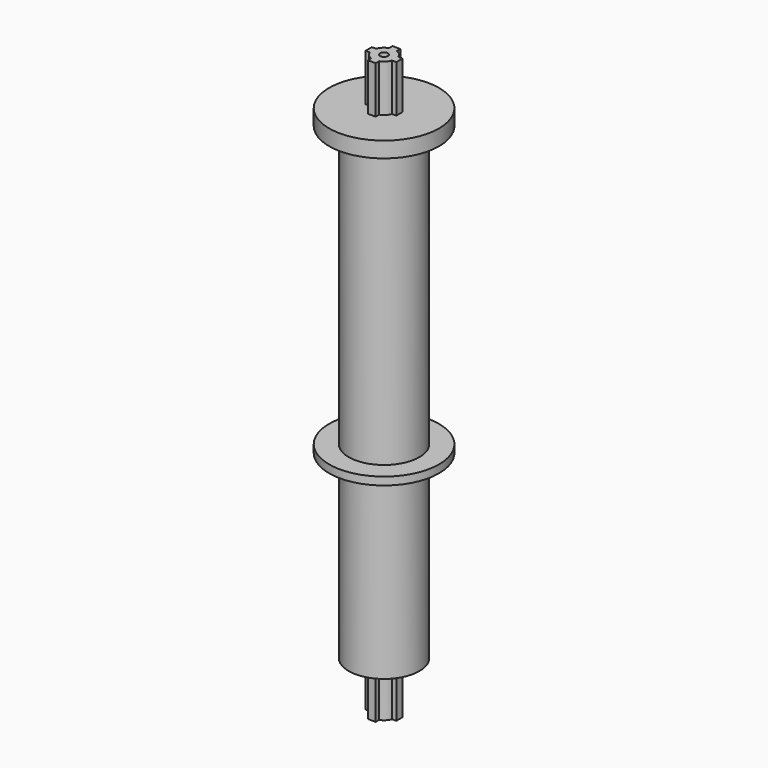
from build123d import *

# Parameters (mm, degrees)
F0_R      = 22.5
F1_DEPTH  = 308.423
F4_DEPTH  = 31
F5_R      = 2.5
F6_DEPTH  = 40
F7_DEPTH  = 30
F8_R      = 2.5
F9_DEPTH  = 30
F10_R     = 35
F11_DEPTH = 10
F13_R     = 35
F14_DEPTH = 5


with BuildPart() as f1:
    # F0 (on Top) → F1 (new body)
    with BuildSketch(Plane.XY):
        Circle(F0_R)
    extrude(amount=F1_DEPTH)

    # F3 (on face) → F4 (join)
    with BuildSketch(Plane(origin=(0, 0, 0), x_dir=(1, 0, 0), z_dir=(0, 0, -1))):
        with BuildLine():
            ThreePointArc((7.0710678119, 2.5), (7.3919891974, 1.2682648404), (7.5, 0))
            ThreePointArc((7.5, 0), (7.3919069765, -1.268743966), (7.0707436663, -2.500916633))
            Line((7.0707436663, -2.500916633), (9.7997435124, -2.5))
            Line((9.7997435124, -2.5), (9.7997435124, 0))
            Line((9.7997435124, 0), (9.7997435124, 2.5))
            Line((9.7997435124, 2.5), (7.0710678119, 2.5))
        make_face()
        with BuildLine():
            Line((2.5, -9.7997435124), (2.5, -7.0710678119))
            ThreePointArc((2.5, -7.0710678119), (-0.0004861292, -7.4999999842), (-2.500916633, -7.0707436663))
            Line((-2.500916633, -7.0707436663), (-2.5, -9.7997435124))
            Line((-2.5, -9.7997435124), (0, -9.7997435124))
            Line((0, -9.7997435124), (2.5, -9.7997435124))
        make_face()
        with BuildLine():
            ThreePointArc((-7.0710678119, -2.5), (-7.4999999842, 0.0004861292), (-7.0707436663, 2.500916633))
            Line((-7.0707436663, 2.500916633), (-9.7997435124, 2.5))
            Line((-9.7997435124, 2.5), (-9.7997435124, 0))
            Line((-9.7997435124, 0), (-9.7997435124, -2.5))
            Line((-9.7997435124, -2.5), (-7.0710678119, -2.5))
        make_face()
        with BuildLine():
            ThreePointArc((7.0707436663, -2.500916633), (7.3919069765, -1.268743966), (7.5, 0))
            ThreePointArc((7.5, 0), (7.3919891974, 1.2682648404), (7.0710678119, 2.5))
            ThreePointArc((7.0710678119, 2.5), (5.303644593, 5.3029571025), (2.500916633, 7.0707436663))
            ThreePointArc((2.500916633, 7.0707436663), (0.0004861292, 7.4999999842), (-2.5, 7.0710678119))
            ThreePointArc((-2.5, 7.0710678119), (-5.3029571025, 5.303644593), (-7.0707436663, 2.500916633))
            ThreePointArc((-7.0707436663, 2.500916633), (-7.4999999842, 0.0004861292), (-7.0710678119, -2.5))
            ThreePointArc((-7.0710678119, -2.5), (-5.303644593, -5.3029571025), (-2.500916633, -7.0707436663))
            ThreePointArc((-2.500916633, -7.0707436663), (-0.0004861292, -7.4999999842), (2.5, -7.0710678119))
            ThreePointArc((2.5, -7.0710678119), (5.3029571025, -5.303644593), (7.0707436663, -2.500916633))
        make_face()
        with BuildLine():
            ThreePointArc((-2.5, 7.0710678119), (0.0004861292, 7.4999999842), (2.500916633, 7.0707436663))
            Line((2.500916633, 7.0707436663), (2.5, 9.7997435124))
            Line((2.5, 9.7997435124), (0, 9.7997435124))
            Line((0, 9.7997435124), (-2.5, 9.7997435124))
            Line((-2.5, 9.7997435124), (-2.5, 7.0710678119))
        make_face()
    extrude(amount=F4_DEPTH)

    # F5 (on face) → F6 (cut)
    with BuildSketch(Plane(origin=(0, 0, -31), x_dir=(1, 0, 0), z_dir=(0, 0, -1))):
        Circle(F5_R)
    extrude(amount=-F6_DEPTH, mode=Mode.SUBTRACT)

    # F2 (on face) → F7 (join)
    with BuildSketch(Plane.XY.offset(308.423)):
        with BuildLine():
            ThreePointArc((7.0707436663, -2.500916633), (7.3919069765, -1.268743966), (7.5, 0))
            ThreePointArc((7.5, 0), (7.3919891974, 1.2682648404), (7.0710678119, 2.5))
            ThreePointArc((7.0710678119, 2.5), (5.303644593, 5.3029571025), (2.500916633, 7.0707436663))
            ThreePointArc((2.500916633, 7.0707436663), (0.0004861292, 7.4999999842), (-2.5, 7.0710678119))
            ThreePointArc((-2.5, 7.0710678119), (-5.3029571025, 5.303644593), (-7.0707436663, 2.500916633))
            ThreePointArc((-7.0707436663, 2.500916633), (-7.4999999842, 0.0004861292), (-7.0710678119, -2.5))
            ThreePointArc((-7.0710678119, -2.5), (-5.303644593, -5.3029571025), (-2.500916633, -7.0707436663))
            ThreePointArc((-2.500916633, -7.0707436663), (-0.0004861292, -7.4999999842), (2.5, -7.0710678119))
            ThreePointArc((2.5, -7.0710678119), (5.3029571025, -5.303644593), (7.0707436663, -2.500916633))
        make_face()
        with BuildLine():
            ThreePointArc((-7.0710678119, -2.5), (-7.4999999842, 0.0004861292), (-7.0707436663, 2.500916633))
            Line((-7.0707436663, 2.500916633), (-9.7997435124, 2.5))
            Line((-9.7997435124, 2.5), (-9.7997435124, 0))
            Line((-9.7997435124, 0), (-9.7997435124, -2.5))
            Line((-9.7997435124, -2.5), (-7.0710678119, -2.5))
        make_face()
        with BuildLine():
            ThreePointArc((-2.5, 7.0710678119), (0.0004861292, 7.4999999842), (2.500916633, 7.0707436663))
            Line((2.500916633, 7.0707436663), (2.5, 9.7997435124))
            Line((2.5, 9.7997435124), (0, 9.7997435124))
            Line((0, 9.7997435124), (-2.5, 9.7997435124))
            Line((-2.5, 9.7997435124), (-2.5, 7.0710678119))
        make_face()
        with BuildLine():
            ThreePointArc((7.0710678119, 2.5), (7.3919891974, 1.2682648404), (7.5, 0))
            ThreePointArc((7.5, 0), (7.3919069765, -1.268743966), (7.0707436663, -2.500916633))
            Line((7.0707436663, -2.500916633), (9.7997435124, -2.5))
            Line((9.7997435124, -2.5), (9.7997435124, 0))
            Line((9.7997435124, 0), (9.7997435124, 2.5))
            Line((9.7997435124, 2.5), (7.0710678119, 2.5))
        make_face()
        with BuildLine():
            Line((2.5, -9.7997435124), (2.5, -7.0710678119))
            ThreePointArc((2.5, -7.0710678119), (-0.0004861292, -7.4999999842), (-2.500916633, -7.0707436663))
            Line((-2.500916633, -7.0707436663), (-2.5, -9.7997435124))
            Line((-2.5, -9.7997435124), (0, -9.7997435124))
            Line((0, -9.7997435124), (2.5, -9.7997435124))
        make_face()
    extrude(amount=F7_DEPTH)

    # F8 (on face) → F9 (cut)
    with BuildSketch(Plane.XY.offset(338.423)):
        Circle(F8_R)
    extrude(amount=-F9_DEPTH, mode=Mode.SUBTRACT)

    # F10 (on face) → F11 (join)
    with BuildSketch(Plane.XY.offset(308.423)):
        Circle(F10_R)
    extrude(amount=-F11_DEPTH)

    # F13 (on offset) → F14 (join)
    with BuildSketch(Plane.XY.offset(115)):
        Circle(F13_R)
    extrude(amount=F14_DEPTH)


solid = f1.part
